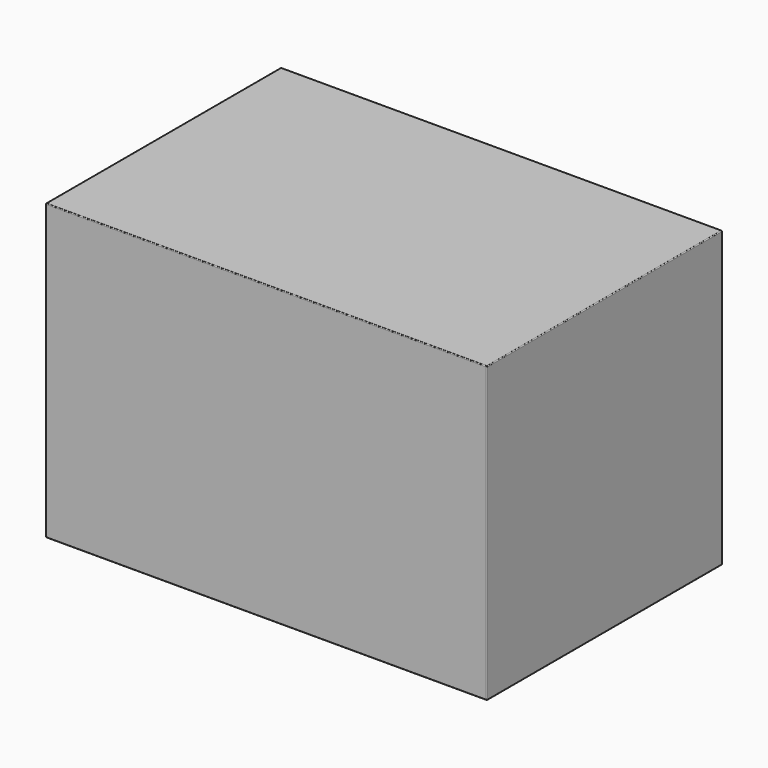
from build123d import *

# Parameters (mm, degrees)
SKETCH_W  = 570
SKETCH_H  = 380
PAD_DEPTH = 380
FILLET_R  = 1


with BuildPart() as part:
    # Sketch → Pad (new body)
    with BuildSketch(Plane.XY):
        with Locations((285, -190)):
            Rectangle(SKETCH_W, SKETCH_H)
    extrude(amount=PAD_DEPTH)

    # Fillet
    fillet_edges = [part.edges().sort_by_distance(p)[0] for p in [
        (0, 0, 190),
        (570, 0, 190),
        (285, 0, 0),
        (285, 0, 380),
        (570, -380, 190),
        (570, -190, 0),
        (570, -190, 380),
        (0, -380, 190),
        (285, -380, 0),
        (285, -380, 380),
        (0, -190, 0),
        (0, -190, 380),
    ]]
    fillet(fillet_edges, radius=FILLET_R)


solid = part.part
